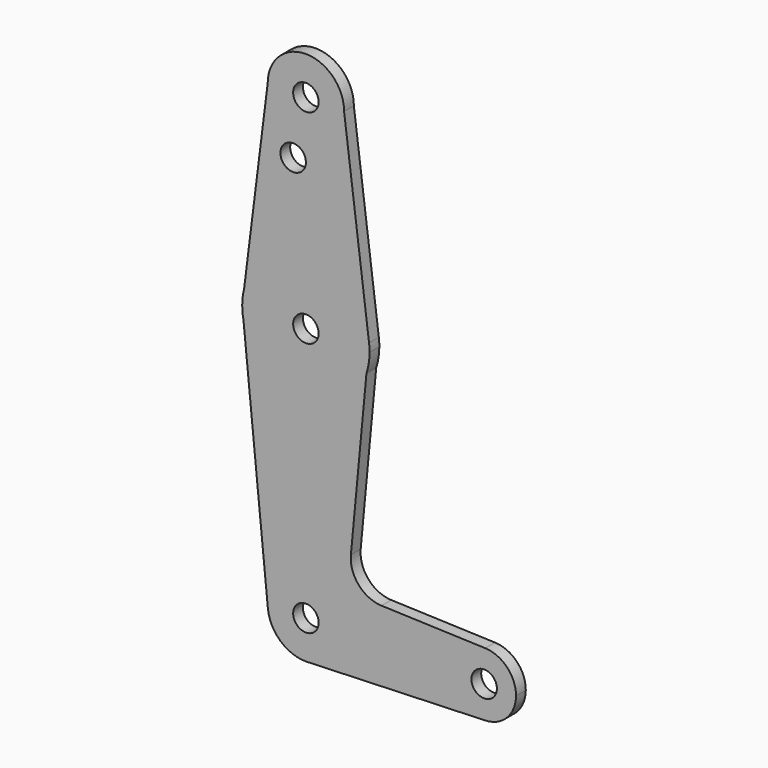
from build123d import *

# Parameters (mm, degrees)
F0_R     = 3.175
F1_DEPTH = 3.048


with BuildPart() as f1:
    # F0 (on Front) → F1 (new body)
    with BuildSketch(Plane.XZ):
        with BuildLine():
            ThreePointArc((15.0940259351, 58.5820729906), (15.6785408556, 61.0102245804), (15.875, 63.5))
            ThreePointArc((15.875, 63.5), (15.8430821396, 64.5061676396), (15.7474569047, 65.5082893304))
            Line((15.7474569047, 65.5082893304), (15.0940259351, 58.5820729906))
        make_face()
        with BuildLine():
            Line((15.0940259351, 58.5820729906), (15.7474569047, 65.5082893304))
            ThreePointArc((15.7474569047, 65.5082893304), (0.9666945993, 79.3455396422), (-15.3865384615, 67.4076923077))
            Line((-15.3865384615, 67.4076923077), (-15.875, 63.5))
            Line((-15.875, 63.5), (-15.5652161214, 60.3791552277))
            ThreePointArc((-15.5652161214, 60.3791552277), (-0.928913984, 47.6522006635), (15.0940259351, 58.5820729906))
        make_face()
        with Locations((0, 63.5)):
            Circle(F0_R, mode=Mode.SUBTRACT)
        with BuildLine():
            ThreePointArc((-15.3865384615, 67.4076923077), (0.9666945993, 79.3455396422), (15.7474569047, 65.5082893304))
            Line((15.7474569047, 65.5082893304), (9.525, 114.3))
            ThreePointArc((9.525, 114.3), (0, 104.775), (-9.525, 114.3))
            Line((-9.525, 114.3), (-15.3865384615, 67.4076923077))
        make_face()
        with Locations((-3.175, 100.0252)):
            Circle(F0_R, mode=Mode.SUBTRACT)
        with BuildLine():
            Line((11.2225788762, 17.545634366), (15.0940259351, 58.5820729906))
            ThreePointArc((15.0940259351, 58.5820729906), (-0.928913984, 47.6522006635), (-15.5652161214, 60.3791552277))
            Line((-15.5652161214, 60.3791552277), (-9.4784185161, -0.940854629))
            ThreePointArc((-9.4784185161, -0.940854629), (-0.4710035211, 9.5133475014), (9.525, 0))
            ThreePointArc((9.525, 0), (6.9705567315, -6.4912990883), (0.6773435479, -9.500885786))
            Line((0.6773435479, -9.500885786), (44.7324052746, -7.9324746146))
            ThreePointArc((44.7324052746, -7.9324746146), (36.5125, 0), (44.7324052746, 7.9324746146))
            Line((44.7324052746, 7.9324746146), (18.854776384, 8.8537481448))
            ThreePointArc((18.854776384, 8.8537481448), (13.1636347791, 11.5532480081), (11.2225788762, 17.545634366))
        make_face()
        with BuildLine():
            Line((-15.875, 63.5), (-15.3865384615, 67.4076923077))
            ThreePointArc((-15.3865384615, 67.4076923077), (-15.7524112928, 65.4690514116), (-15.875, 63.5))
        make_face()
        with BuildLine():
            ThreePointArc((-9.525, 114.3), (0, 104.775), (9.525, 114.3))
            ThreePointArc((9.525, 114.3), (0, 123.825), (-9.525, 114.3))
        make_face()
        with Locations((0, 114.3)):
            Circle(F0_R, mode=Mode.SUBTRACT)
        with BuildLine():
            ThreePointArc((-15.875, 63.5), (-15.7973641936, 61.9319089516), (-15.5652161214, 60.3791552277))
            Line((-15.5652161214, 60.3791552277), (-15.875, 63.5))
        make_face()
        with BuildLine():
            ThreePointArc((9.525, 0), (-0.4710035211, 9.5133475014), (-9.4784185161, -0.940854629))
            ThreePointArc((-9.4784185161, -0.940854629), (-6.3939027463, -7.0600023138), (0, -9.525))
            Line((0, -9.525), (0.6773435479, -9.500885786))
            ThreePointArc((0.6773435479, -9.500885786), (6.9705567315, -6.4912990883), (9.525, 0))
        make_face()
        Circle(F0_R, mode=Mode.SUBTRACT)
        with BuildLine():
            Line((0.6773435479, -9.500885786), (0, -9.525))
            ThreePointArc((0, -9.525), (0.3388863295, -9.5189695375), (0.6773435479, -9.500885786))
        make_face()
        with BuildLine():
            ThreePointArc((52.3875, 0), (50.1616327839, 5.5119104847), (44.7324052746, 7.9324746146))
            ThreePointArc((44.7324052746, 7.9324746146), (36.5125, 0), (44.7324052746, -7.9324746146))
            ThreePointArc((44.7324052746, -7.9324746146), (50.1616327839, -5.5119104847), (52.3875, 0))
        make_face()
        with Locations((44.45, 0)):
            Circle(F0_R, mode=Mode.SUBTRACT)
    extrude(amount=F1_DEPTH)


solid = f1.part
